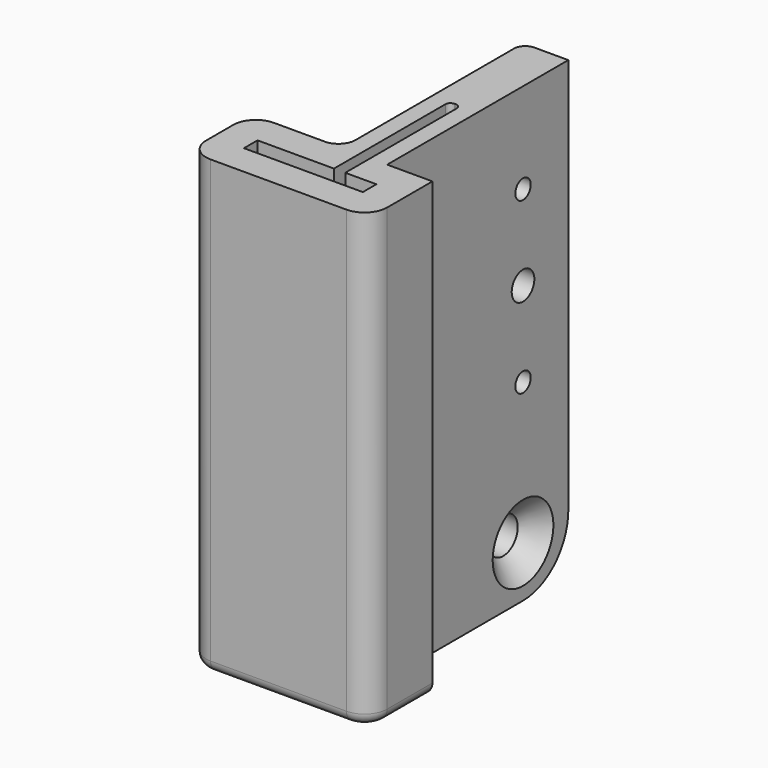
from build123d import *

# Parameters (mm, degrees)
PAD_DEPTH       = 80
POCKET_DEPTH    = 76
SKETCH002_R     = 1.7
SKETCH002_R_2   = 3.2
SKETCH002_R_3   = 2.5
POCKET001_DEPTH = 16.001
POCKET002_DEPTH = 5
CHAMFER_SIZE    = 3.5
FILLET_R        = 10
CHAMFER001_SIZE = 1.8
CHAMFER002_SIZE = 1.8
CHAMFER003_SIZE = 1.8
CHAMFER004_SIZE = 1.8
CHAMFER005_SIZE = 1.8
FILLET001_R     = 3
FILLET002_R     = 4
FILLET003_R     = 4
FILLET004_R     = 4
FILLET005_R     = 2
FILLET006_R     = 0.9
FILLET007_R     = 0.9


with BuildPart() as fillet007:
    # Sketch → Pad (new body)
    with BuildSketch(Plane.XY):
        Polygon((-4, 0), (-4, 40), (4, 40), (4, 18), (4, 0), (12, 0), (12, -14), (-20, -14), (-20, 0), align=None)
    extrude(amount=PAD_DEPTH)

    # Sketch001 → Pocket (cut)
    with BuildSketch(Plane.XY.offset(80)):
        Polygon((1, -3.8), (1, 20), (-1, 20), (-1, -3.8), (-16.25, -3.8), (-16.25, -10.2), (8.25, -10.2), (8.25, -3.8), align=None)
    extrude(amount=-POCKET_DEPTH, mode=Mode.SUBTRACT)

    # Sketch002 → Pocket001 (cut, through all)
    with BuildSketch(Plane(origin=(-4, 0, 0), x_dir=(0, -1, 0), z_dir=(-1, 0, 0))):
        with Locations((-6, 7)):
            Circle(SKETCH002_R)
        with Locations((-6, 55)):
            Circle(SKETCH002_R)
        with Locations((-6, 75)):
            Circle(SKETCH002_R)
        with Locations((-30, 46)):
            Circle(SKETCH002_R)
        with Locations((-30, 16)):
            Circle(SKETCH002_R)
        with Locations((-30, 71)):
            Circle(SKETCH002_R_2)
        with Locations((-30, 31)):
            Circle(SKETCH002_R_3)
    extrude(amount=-POCKET001_DEPTH, mode=Mode.SUBTRACT)

    # Sketch003 → Pocket002 (cut)
    with BuildSketch(Plane(origin=(0, 0, 0), x_dir=(1, 0, 0), z_dir=(0, 0, -1))):
        Polygon((-14.5, 8.5), (6.5, 8.5), (6.5, 5.5), (1, 5.5), (1, -20), (-1, -20), (-1, 5.5), (-14.5, 5.5), align=None)
    extrude(amount=-POCKET002_DEPTH, mode=Mode.SUBTRACT)

    # Chamfer
    chamfer_edges = [fillet007.edges().sort_by_distance(p)[0] for p in [
        (4, 33.2, 71),
    ]]
    chamfer(chamfer_edges, length=CHAMFER_SIZE)

    # Fillet
    fillet_edges = [fillet007.edges().sort_by_distance(p)[0] for p in [
        (0, 40, 80),
    ]]
    fillet(fillet_edges, radius=FILLET_R)

    # Chamfer001
    chamfer001_edges = [fillet007.edges().sort_by_distance(p)[0] for p in [
        (-4, 7.7, 7),
    ]]
    chamfer(chamfer001_edges, length=CHAMFER001_SIZE)

    # Chamfer002
    chamfer002_edges = [fillet007.edges().sort_by_distance(p)[0] for p in [
        (-4, 7.7, 75),
    ]]
    chamfer(chamfer002_edges, length=CHAMFER002_SIZE)

    # Chamfer003
    chamfer003_edges = [fillet007.edges().sort_by_distance(p)[0] for p in [
        (-4, 7.7, 55),
    ]]
    chamfer(chamfer003_edges, length=CHAMFER003_SIZE)

    # Chamfer004
    chamfer004_edges = [fillet007.edges().sort_by_distance(p)[0] for p in [
        (-4, 31.7, 46),
    ]]
    chamfer(chamfer004_edges, length=CHAMFER004_SIZE)

    # Chamfer005
    chamfer005_edges = [fillet007.edges().sort_by_distance(p)[0] for p in [
        (-4, 31.7, 16),
    ]]
    chamfer(chamfer005_edges, length=CHAMFER005_SIZE)

    # Fillet001
    fillet001_edges = [fillet007.edges().sort_by_distance(p)[0] for p in [
        (-4, 0, 40),
    ]]
    fillet(fillet001_edges, radius=FILLET001_R)

    # Fillet002
    fillet002_edges = [fillet007.edges().sort_by_distance(p)[0] for p in [
        (-20, 0, 40),
    ]]
    fillet(fillet002_edges, radius=FILLET002_R)

    # Fillet003
    fillet003_edges = [fillet007.edges().sort_by_distance(p)[0] for p in [
        (-20, -14, 40),
    ]]
    fillet(fillet003_edges, radius=FILLET003_R)

    # Fillet004
    fillet004_edges = [fillet007.edges().sort_by_distance(p)[0] for p in [
        (12, -14, 40),
    ]]
    fillet(fillet004_edges, radius=FILLET004_R)

    # Fillet005
    fillet005_edges = [fillet007.edges().sort_by_distance(p)[0] for p in [
        (-4, 40, 35),
    ]]
    fillet(fillet005_edges, radius=FILLET005_R)

    # Fillet006
    fillet006_edges = [fillet007.edges().sort_by_distance(p)[0] for p in [
        (-1, 20, 40),
    ]]
    fillet(fillet006_edges, radius=FILLET006_R)

    # Fillet007
    fillet007_edges = [fillet007.edges().sort_by_distance(p)[0] for p in [
        (1, 20, 40),
    ]]
    fillet(fillet007_edges, radius=FILLET007_R)


with BuildPart() as part_mirroring:
    # Part__Mirroring: instance of Fillet007
    add(fillet007.part.mirror(Plane(origin=(0, 0, 0), x_dir=(0, 1, 0), z_dir=(0, 0, 1))))


solid = part_mirroring.part
